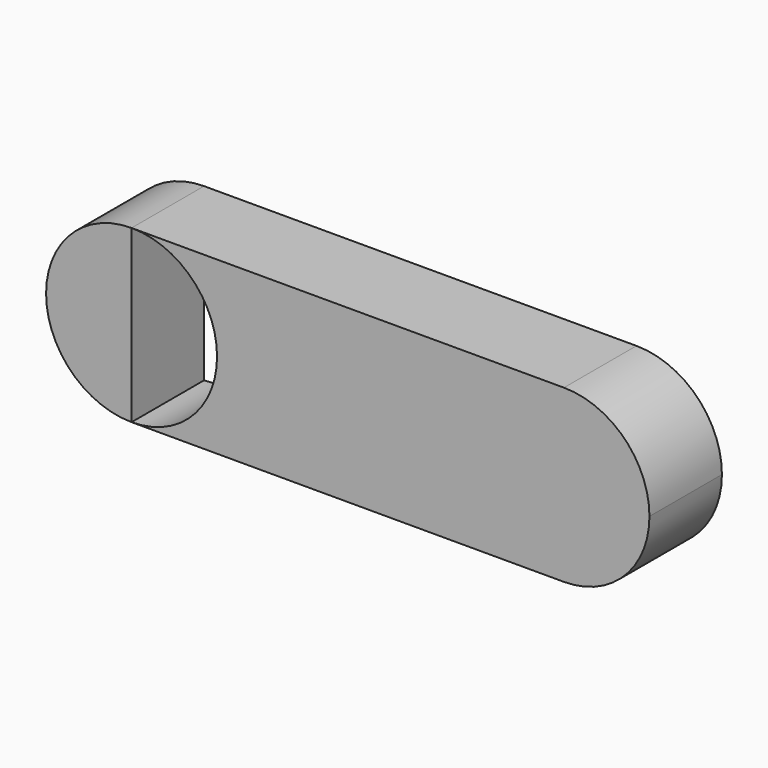
from build123d import *

# Parameters (mm, degrees)
F0_DEPTH = 25.4


with BuildPart() as f0:
    # F1 (on Front) → F0 (new body)
    with BuildSketch(Plane.XZ):
        with BuildLine():
            ThreePointArc((-35.107329, 16.286403), (-42.126887, -0.660307), (-59.073597, -7.679865))
            Line((-59.073597, -7.679865), (62.148049, -7.679865))
            ThreePointArc((62.148049, -7.679865), (38.181782, 16.286403), (62.148049, 40.252671))
            Line((62.148049, 40.252671), (-59.073597, 40.252671))
            ThreePointArc((-59.073597, 40.252671), (-42.126887, 33.233113), (-35.107329, 16.286403))
        make_face()
        with BuildLine():
            ThreePointArc((62.148049, 40.252671), (38.181782, 16.286403), (62.148049, -7.679865))
            Line((62.148049, -7.679865), (62.148049, 40.252671))
        make_face()
        with BuildLine():
            Line((62.148049, 40.252671), (62.148049, -7.679865))
            ThreePointArc((62.148049, -7.679865), (79.09476, -0.660307), (86.114317, 16.286403))
            ThreePointArc((86.114317, 16.286403), (79.09476, 33.233113), (62.148049, 40.252671))
        make_face()
        with BuildLine():
            ThreePointArc((-59.073597, 40.252671), (-83.039865, 16.286403), (-59.073597, -7.679865))
            Line((-59.073597, -7.679865), (-59.073597, 40.252671))
        make_face()
    extrude(amount=F0_DEPTH)


solid = f0.part
